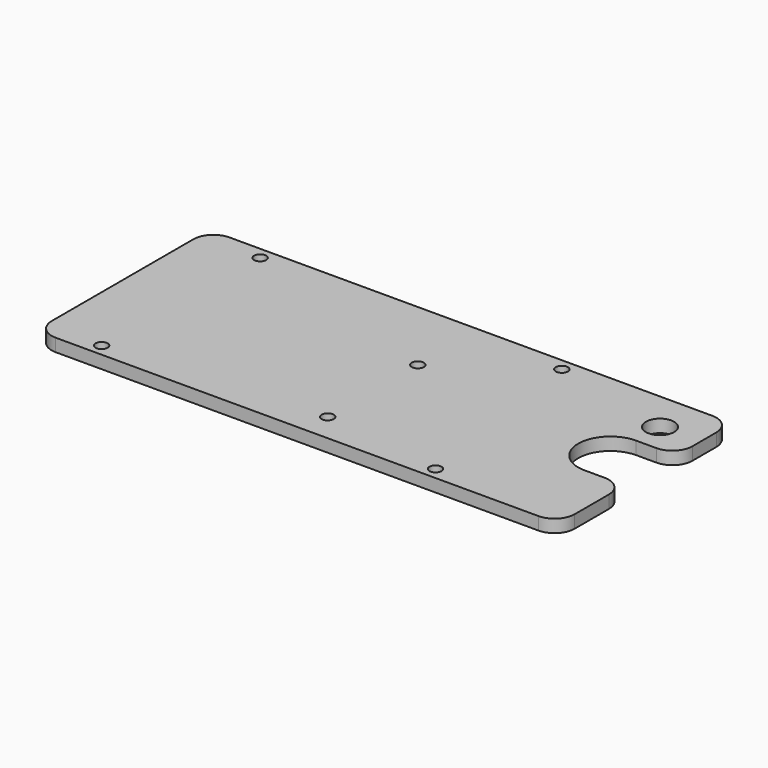
from build123d import *

# Parameters (mm, degrees)
F0_R     = 3.5
F1_DEPTH = 3.175
F3_R     = 5
F2_R     = 1.5
F4_DEPTH = 25


with BuildPart() as f1:
    # F0 (on Top) → F1 (new body)
    with BuildSketch(Plane.XY):
        with BuildLine():
            Line((65, 27), (-65, 27))
            Line((-65, 27), (-65, -27))
            Line((-65, -27), (65, -27))
            Line((65, -27), (65, -6.4))
            Line((65, -6.4), (55, -6.4))
            ThreePointArc((55, -6.4), (47, 1.6), (55, 9.6))
            Line((55, 9.6), (65, 9.6))
            Line((65, 9.6), (65, 27))
        make_face()
        with Locations((55, 17)):
            Circle(F0_R, mode=Mode.SUBTRACT)
    extrude(amount=F1_DEPTH)

    # F3
    f3_edges = [f1.edges().sort_by_distance(p)[0] for p in [
        (-65, -27, 1.5875),
        (-65, 27, 1.5875),
        (65, -27, 1.5875),
        (65, -6.4, 1.5875),
        (65, 9.6, 1.5875),
        (65, 27, 1.5875),
    ]]
    fillet(f3_edges, radius=F3_R)

    # F2 (on face) → F4 (cut)
    with BuildSketch(Plane.XY.offset(3.175)):
        with Locations((25, 24)):
            Circle(F2_R)
        with Locations((2, 8)):
            Circle(F2_R)
        with Locations((32, -24)):
            Circle(F2_R)
        with Locations((2, -20)):
            Circle(F2_R)
        with Locations((-50, 24)):
            Circle(F2_R)
        with Locations((-51, -24)):
            Circle(F2_R)
    extrude(amount=-F4_DEPTH, mode=Mode.SUBTRACT)


solid = f1.part
